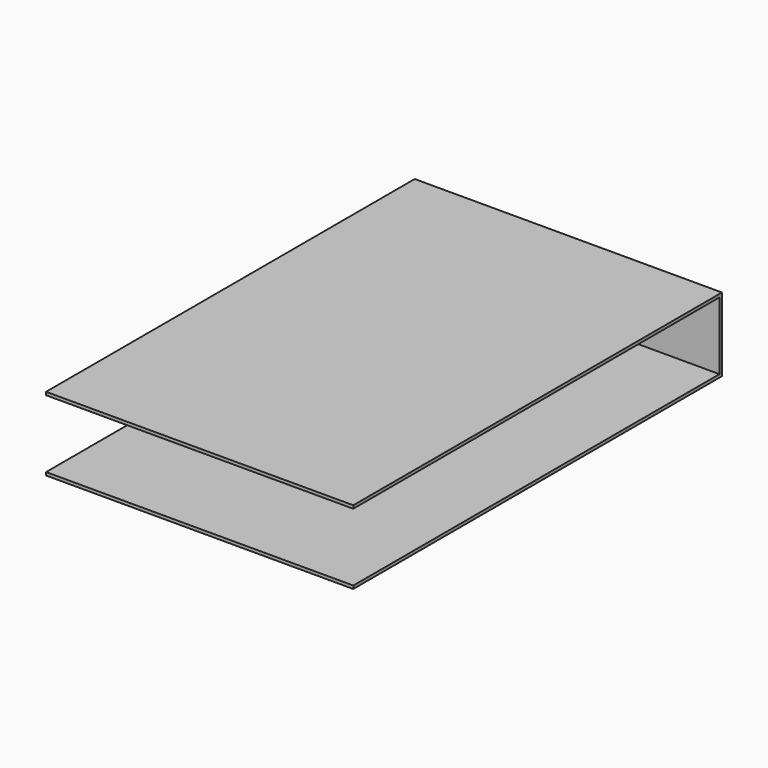
from build123d import *

# Parameters (mm, degrees)
BOX056_W     = 5
BOX056_H     = 7.45
BOX056_DEPTH = 1.1
BOX055_W     = 5
BOX055_H     = 7.5
BOX055_DEPTH = 1.2


with BuildPart() as small_cu_gnd_electrode012:
    # Box056 → Box056 (new body)
    with BuildSketch(Plane.XY.offset(0.05)):
        with Locations((2.5, 3.725)):
            Rectangle(BOX056_W, BOX056_H)
    extrude(amount=BOX056_DEPTH)


with BuildPart() as small_cu_electrode001_long_axis_v:
    # Box055 → Box055 (new body)
    with BuildSketch(Plane.XY):
        with Locations((2.5, 3.75)):
            Rectangle(BOX055_W, BOX055_H)
    extrude(amount=BOX055_DEPTH)

    # Cut008: cut Small Cu GND Electrode012
    add(small_cu_gnd_electrode012.part, mode=Mode.SUBTRACT)


with BuildPart() as small_cu_electrode001_long_axis_v_1:
    # Cut008 placement: moved
    add(small_cu_electrode001_long_axis_v.part.moved(Location((-2.38, -2.38, 2.14))))


solid = small_cu_electrode001_long_axis_v_1.part
